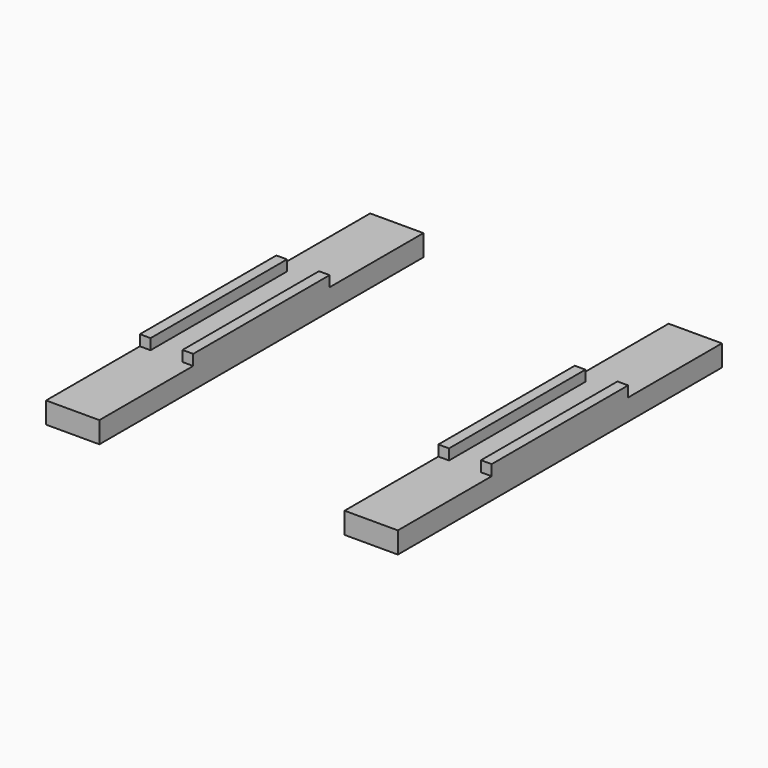
from build123d import *

# Parameters (mm, degrees)
SKETCH015_W             = 5
SKETCH015_H             = 2
EXTRUDE012_DEPTH        = 19
SKETCH011_W             = 1
SKETCH011_H             = 8
EXTRUDE010_DEPTH        = 1
BODY005_PLACEMENT_ANGLE = 180


with BuildPart() as extrude012:
    # Sketch015 → Extrude012 (new body)
    with BuildSketch(Plane.XZ):
        with Locations((-12, 5)):
            Rectangle(SKETCH015_W, SKETCH015_H)
        with Locations((16, 5)):
            Rectangle(SKETCH015_W, SKETCH015_H)
    extrude(amount=-EXTRUDE012_DEPTH)


with BuildPart() as fusion002:
    # Sketch011 → Extrude010 (new body)
    with BuildSketch(Plane.XY.offset(5)):
        with Locations((14, 4)):
            Rectangle(SKETCH011_W, SKETCH011_H)
        with Locations((18, 4)):
            Rectangle(SKETCH011_W, SKETCH011_H)
        with Locations((-10, 4)):
            Rectangle(SKETCH011_W, SKETCH011_H)
        with Locations((-14, 4)):
            Rectangle(SKETCH011_W, SKETCH011_H)
    extrude(amount=-EXTRUDE010_DEPTH)


with BuildPart() as fusion002_1:
    # Extrude010 placement: moved
    add(fusion002.part.moved(Location((0, 0, -1))))

    # Fusion002: union Extrude012
    add(extrude012.part)


with BuildPart() as body001:
    # Body001 base: copy of Fusion002
    add(fusion002_1.part)


with BuildPart() as part_mirroring001:
    # Part__Mirroring001: instance of Body001
    add(body001.part.mirror(Plane(origin=(0, 0, 0), x_dir=(1, 0, 0), z_dir=(0, 1, 0))))


with BuildPart() as body005:
    # Fusion003 base: copy of Fusion002
    add(fusion002_1.part)

    # Fusion003: union Part__Mirroring001
    add(part_mirroring001.part)


with BuildPart() as body005_1:
    # Body005 placement: moved
    add(body005.part.moved(Location((0, 0, -42))).rotate(Axis((0, 0, -42), (0, 1, 0)), BODY005_PLACEMENT_ANGLE))


solid = body005_1.part
